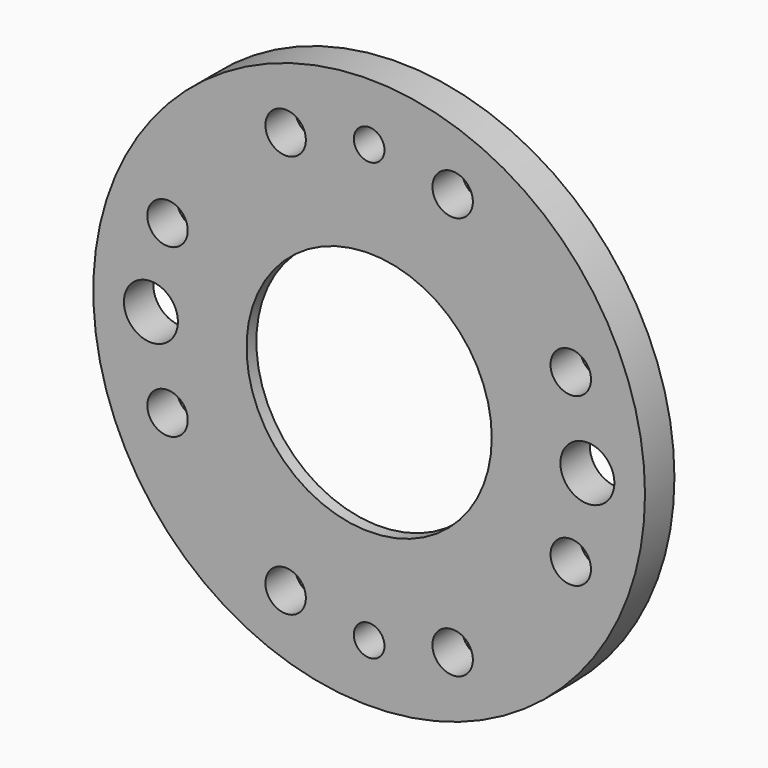
from build123d import *

# Parameters (mm, degrees)
F0_R     = 22.5
F0_R_2   = 10
F1_DEPTH = 3
F2_D     = 3.3
F3_D     = 4.4
F4_R     = 12.6
F4_R_2   = 10
F5_DEPTH = 2
F6_D     = 2.5


with BuildPart() as f1:
    # F0 (on Front) → F1 (new body)
    with BuildSketch(Plane.XZ):
        Circle(F0_R)
        Circle(F0_R_2, mode=Mode.SUBTRACT)
    extrude(amount=F1_DEPTH)

    # F2 (through all)
    with Locations(Plane(origin=(0, 0, 0), x_dir=(1, 0, 0), z_dir=(0, 1, 0))):
        with Locations((-16.4450556787, -6.8117650961), (-6.8117650961, -16.4450556787), (6.8117650961, -16.4450556787), (16.4450556787, -6.8117650961), (16.4450556787, 6.8117650961), (6.8117650961, 16.4450556787), (-6.8117650961, 16.4450556787), (-16.4450556787, 6.8117650961)):
            Hole(F2_D / 2)

    # F3 (through all)
    with Locations(Plane(origin=(0, 0, 0), x_dir=(1, 0, 0), z_dir=(0, 1, 0))):
        with Locations((-17.8, 0), (17.8, 0)):
            Hole(F3_D / 2)

    # F4 (on face) → F5 (cut)
    with BuildSketch(Plane(origin=(0, 0, 0), x_dir=(-1, 0, 0), z_dir=(0, 1, 0))):
        Circle(F4_R)
        Circle(F4_R_2, mode=Mode.SUBTRACT)
    extrude(amount=-F5_DEPTH, mode=Mode.SUBTRACT)

    # F6 (through all)
    with Locations(Plane(origin=(0, 0, 0), x_dir=(1, 0, 0), z_dir=(0, 1, 0))):
        with Locations((0, -17.8), (0, 17.8)):
            Hole(F6_D / 2)


solid = f1.part
